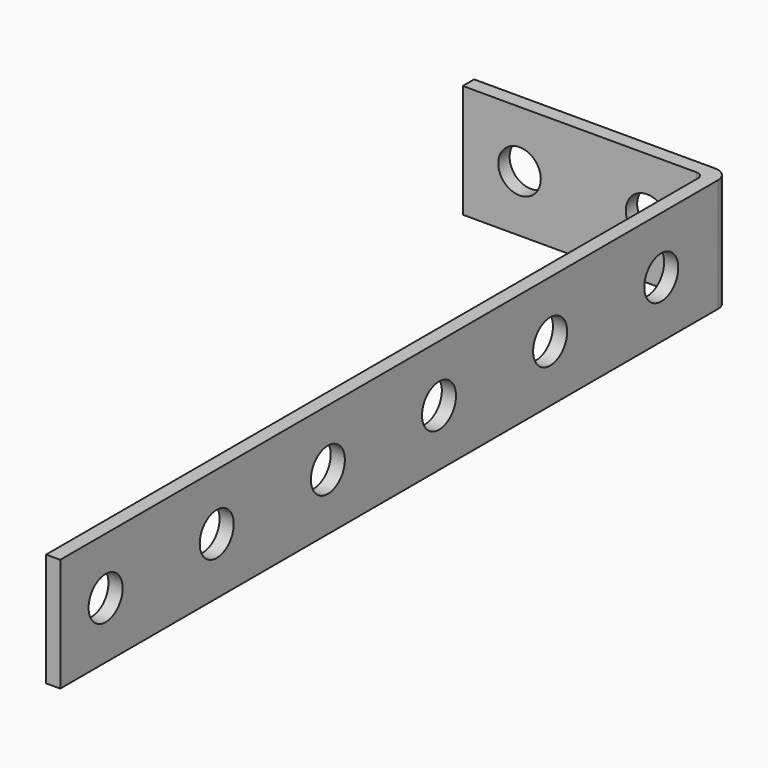
from build123d import *

# Parameters (mm, degrees)
F1_DEPTH = 8
F2_R     = 1.5
F3_DEPTH = 25
F4_R     = 1.5
F5_DEPTH = 25
F6_R     = 1
F7_R     = 0.5


with BuildPart() as f1:
    # F0 (on Top) → F1 (new body)
    with BuildSketch(Plane.XY):
        Polygon((-0.5, 29), (-0.5, -29), (0.5, -29), (0.5, 29), (0.5, 30), (-17.5, 30), (-17.5, 29), align=None)
    extrude(amount=F1_DEPTH)

    # F2 (on face) → F3 (cut)
    with BuildSketch(Plane(origin=(-0.5, 0, 0), x_dir=(0, -1, 0), z_dir=(-1, 0, 0))):
        with Locations((25, 4)):
            Circle(F2_R)
        with Locations((15.2, 4)):
            Circle(F2_R)
        with Locations((5.4, 4)):
            Circle(F2_R)
        with Locations((-4.4, 4)):
            Circle(F2_R)
        with Locations((-14.2, 4)):
            Circle(F2_R)
        with Locations((-24, 4)):
            Circle(F2_R)
    extrude(amount=-F3_DEPTH, mode=Mode.SUBTRACT)

    # F4 (on face) → F5 (cut)
    with BuildSketch(Plane.XZ.offset(-29)):
        with Locations((-4.5, 4)):
            Circle(F4_R)
        with Locations((-13.5, 4)):
            Circle(F4_R)
    extrude(amount=-F5_DEPTH, mode=Mode.SUBTRACT)

    # F6
    f6_edges = [f1.edges().sort_by_distance(p)[0] for p in [
        (0.5, 30, 4),
    ]]
    fillet(f6_edges, radius=F6_R)

    # F7
    f7_edges = [f1.edges().sort_by_distance(p)[0] for p in [
        (-0.5, 29, 4),
    ]]
    fillet(f7_edges, radius=F7_R)


solid = f1.part
